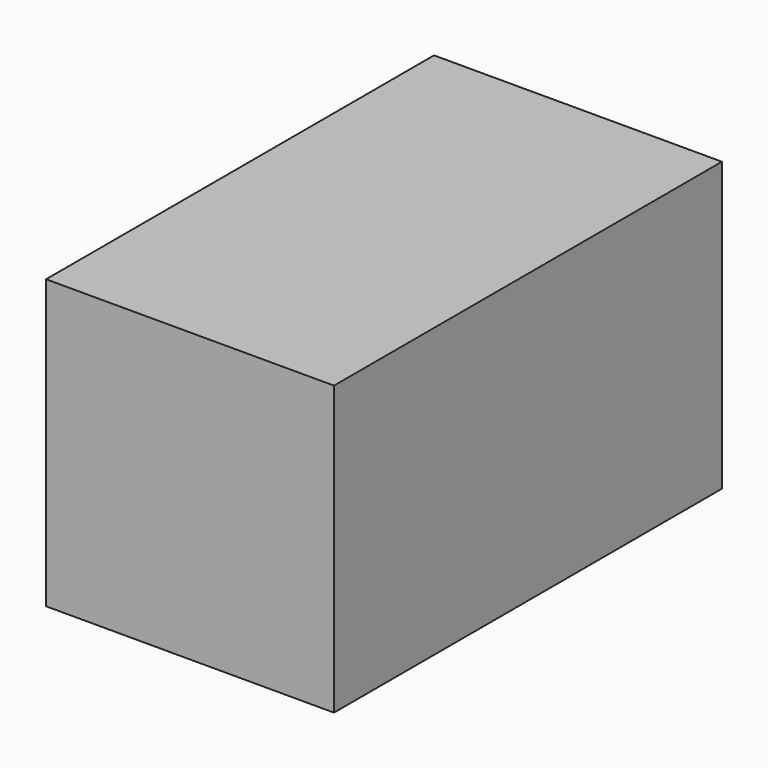
from build123d import *

# Parameters (mm, degrees)
F0_W     = 482.6
F0_H     = 812.8
F1_DEPTH = 482.6
F2_W     = 355.6
F2_H     = 355.6
F3_DEPTH = 50.8
F2_W_2   = 431.8
F2_H_2   = 431.8
F4_DEPTH = 25.4


with BuildPart() as f1:
    # F0 (on Top) → F1 (new body)
    with BuildSketch(Plane.XY):
        with Locations((-446.823381, -61.770858)):
            Rectangle(F0_W, F0_H)
    extrude(amount=F1_DEPTH)

    # F2 (on face) → F3 (join)
    with BuildSketch(Plane(origin=(0, 344.629142, 0), x_dir=(-1, 0, 0), z_dir=(0, 1, 0))):
        with Locations((446.823381, 241.3)):
            Rectangle(F2_W, F2_H)
    extrude(amount=F3_DEPTH)

    # F2 (on face) → F4 (join)
    with BuildSketch(Plane(origin=(0, 344.629142, 0), x_dir=(-1, 0, 0), z_dir=(0, 1, 0))):
        with Locations((446.823381, 241.3)):
            Rectangle(F2_W_2, F2_H_2)
        with Locations((446.823381, 241.3)):
            Rectangle(F2_W, F2_H, mode=Mode.SUBTRACT)
    extrude(amount=F4_DEPTH)


solid = f1.part
